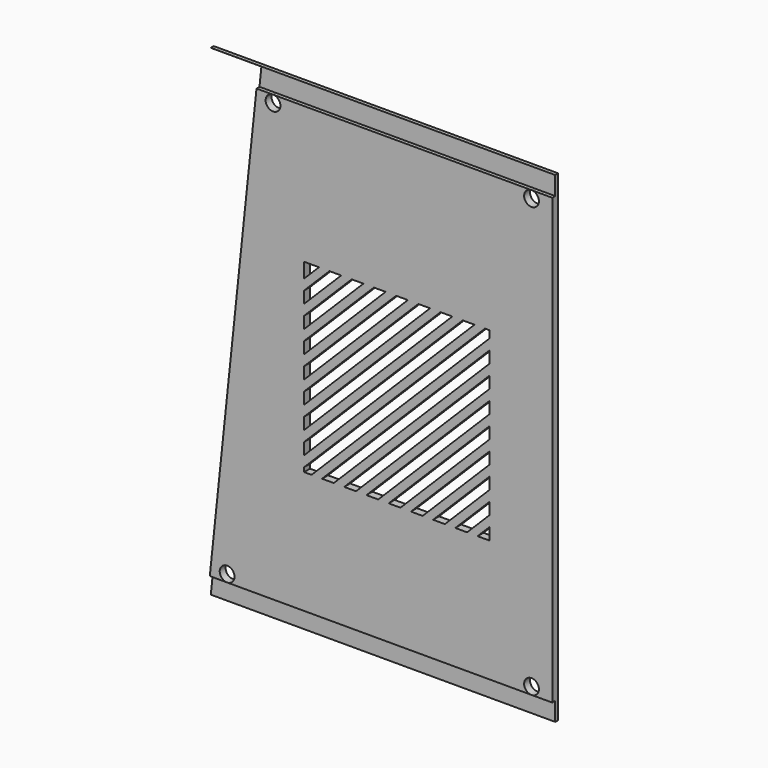
from build123d import *

# Parameters (mm, degrees)
CYLINDER074_R          = 2
CYLINDER074_DEPTH      = 10
CYLINDER073_R          = 2
CYLINDER073_DEPTH      = 10
CYLINDER075_R          = 2
CYLINDER075_DEPTH      = 10
CYLINDER076_R          = 2
CYLINDER076_DEPTH      = 10
BOX103_W               = 1
BOX103_H               = 100
BOX103_DEPTH           = 5
BOX102_W               = 1
BOX102_H               = 100
BOX102_DEPTH           = 5
BOX100_W               = 2
BOX100_H               = 2
BOX100_DEPTH           = 80
BOX100_PLACEMENT_ANGLE = 45
BOX101_W               = 2
BOX101_H               = 2
BOX101_DEPTH           = 80
BOX101_PLACEMENT_ANGLE = 45
BOX097_W               = 2
BOX097_H               = 2
BOX097_DEPTH           = 80
BOX097_PLACEMENT_ANGLE = 45
BOX096_W               = 2
BOX096_H               = 2
BOX096_DEPTH           = 80
BOX096_PLACEMENT_ANGLE = 45
BOX095_W               = 2
BOX095_H               = 2
BOX095_DEPTH           = 80
BOX095_PLACEMENT_ANGLE = 45
BOX094_W               = 2
BOX094_H               = 2
BOX094_DEPTH           = 80
BOX094_PLACEMENT_ANGLE = 45
BOX093_W               = 2
BOX093_H               = 2
BOX093_DEPTH           = 80
BOX093_PLACEMENT_ANGLE = 45
BOX092_W               = 2
BOX092_H               = 2
BOX092_DEPTH           = 80
BOX092_PLACEMENT_ANGLE = 45
BOX091_W               = 2
BOX091_H               = 2
BOX091_DEPTH           = 80
BOX091_PLACEMENT_ANGLE = 45
BOX090_W               = 2
BOX090_H               = 2
BOX090_DEPTH           = 80
BOX090_PLACEMENT_ANGLE = 45
BOX089_W               = 2
BOX089_H               = 2
BOX089_DEPTH           = 80
BOX089_PLACEMENT_ANGLE = 45
BOX088_W               = 2
BOX088_H               = 2
BOX088_DEPTH           = 80
BOX088_PLACEMENT_ANGLE = 45
BOX087_W               = 2
BOX087_H               = 2
BOX087_DEPTH           = 80
BOX087_PLACEMENT_ANGLE = 45
BOX086_W               = 2
BOX086_H               = 2
BOX086_DEPTH           = 80
BOX086_PLACEMENT_ANGLE = 45
BOX084_W               = 2
BOX084_H               = 2
BOX084_DEPTH           = 80
BOX084_PLACEMENT_ANGLE = 45
BOX085_W               = 2
BOX085_H               = 2
BOX085_DEPTH           = 80
BOX085_PLACEMENT_ANGLE = 45
BOX099_W               = 2
BOX099_H               = 2
BOX099_DEPTH           = 80
BOX099_PLACEMENT_ANGLE = 45
BOX098_W               = 2
BOX098_H               = 50
BOX098_DEPTH           = 50
PAD014_DEPTH           = 5
BOX083_W               = 2
BOX083_H               = 93
BOX083_DEPTH           = 130
CUT076_PLACEMENT_ANGLE = 90


with BuildPart() as cylinder043:
    # Cylinder074 → Cylinder074 (new body)
    with BuildSketch(Plane(origin=(102, 0, 27), x_dir=(1, 0, 0), z_dir=(0, -1, 0))):
        Circle(CYLINDER074_R)
    extrude(amount=CYLINDER074_DEPTH)


with BuildPart() as cylinder042:
    # Cylinder073 → Cylinder073 (new body)
    with BuildSketch(Plane(origin=(19.8, 0, 27), x_dir=(1, 0, 0), z_dir=(0, -1, 0))):
        Circle(CYLINDER073_R)
    extrude(amount=CYLINDER073_DEPTH)


with BuildPart() as cylinder044:
    # Cylinder075 → Cylinder075 (new body)
    with BuildSketch(Plane(origin=(102, 0, 143), x_dir=(1, 0, 0), z_dir=(0, -1, 0))):
        Circle(CYLINDER075_R)
    extrude(amount=CYLINDER075_DEPTH)


with BuildPart() as obj1:
    # Cylinder076 → Cylinder076 (new body)
    with BuildSketch(Plane(origin=(32.2, 0, 143), x_dir=(1, 0, 0), z_dir=(0, -1, 0))):
        Circle(CYLINDER076_R)
    extrude(amount=CYLINDER076_DEPTH)

    # Fusion045: union Cylinder043, Cylinder042, Cylinder044
    add(cylinder043.part)
    add(cylinder042.part)
    add(cylinder044.part)


with BuildPart() as obj1_1:
    # Fusion045 placement: moved
    add(obj1.part.moved(Location((0, 5, 0))))


with BuildPart() as cube094:
    # Box103 → Box103 (new body)
    with BuildSketch(Plane.XY.offset(125)):
        with Locations((0.5, 50)):
            Rectangle(BOX103_W, BOX103_H)
    extrude(amount=BOX103_DEPTH)


with BuildPart() as obj2:
    # Box102 → Box102 (new body)
    with BuildSketch(Plane.XY):
        with Locations((0.5, 50)):
            Rectangle(BOX102_W, BOX102_H)
    extrude(amount=BOX102_DEPTH)

    # Fusion044: union Cube094
    add(cube094.part)


with BuildPart() as cube091:
    # Box100 → Box100 (new body)
    with BuildSketch(Plane.XY):
        with Locations((1, 1)):
            Rectangle(BOX100_W, BOX100_H)
    extrude(amount=BOX100_DEPTH)


with BuildPart() as cube091_1:
    # Box100 placement: moved
    add(cube091.part.moved(Location((0, 90, 0))).rotate(Axis((0, 90, 0), (-1, 0, 0)), BOX100_PLACEMENT_ANGLE))


with BuildPart() as cube092:
    # Box101 → Box101 (new body)
    with BuildSketch(Plane.XY):
        with Locations((1, 1)):
            Rectangle(BOX101_W, BOX101_H)
    extrude(amount=BOX101_DEPTH)


with BuildPart() as cube092_1:
    # Box101 placement: moved
    add(cube092.part.moved(Location((0, 96, 0))).rotate(Axis((0, 96, 0), (-1, 0, 0)), BOX101_PLACEMENT_ANGLE))


with BuildPart() as cube088:
    # Box097 → Box097 (new body)
    with BuildSketch(Plane.XY):
        with Locations((1, 1)):
            Rectangle(BOX097_W, BOX097_H)
    extrude(amount=BOX097_DEPTH)


with BuildPart() as cube088_1:
    # Box097 placement: moved
    add(cube088.part.moved(Location((0, 78, 0))).rotate(Axis((0, 78, 0), (-1, 0, 0)), BOX097_PLACEMENT_ANGLE))


with BuildPart() as cube087:
    # Box096 → Box096 (new body)
    with BuildSketch(Plane.XY):
        with Locations((1, 1)):
            Rectangle(BOX096_W, BOX096_H)
    extrude(amount=BOX096_DEPTH)


with BuildPart() as cube087_1:
    # Box096 placement: moved
    add(cube087.part.moved(Location((0, 72, 0))).rotate(Axis((0, 72, 0), (-1, 0, 0)), BOX096_PLACEMENT_ANGLE))


with BuildPart() as cube086:
    # Box095 → Box095 (new body)
    with BuildSketch(Plane.XY):
        with Locations((1, 1)):
            Rectangle(BOX095_W, BOX095_H)
    extrude(amount=BOX095_DEPTH)


with BuildPart() as cube086_1:
    # Box095 placement: moved
    add(cube086.part.moved(Location((0, 66, 0))).rotate(Axis((0, 66, 0), (-1, 0, 0)), BOX095_PLACEMENT_ANGLE))


with BuildPart() as cube085:
    # Box094 → Box094 (new body)
    with BuildSketch(Plane.XY):
        with Locations((1, 1)):
            Rectangle(BOX094_W, BOX094_H)
    extrude(amount=BOX094_DEPTH)


with BuildPart() as cube085_1:
    # Box094 placement: moved
    add(cube085.part.moved(Location((0, 60, 0))).rotate(Axis((0, 60, 0), (-1, 0, 0)), BOX094_PLACEMENT_ANGLE))


with BuildPart() as cube084:
    # Box093 → Box093 (new body)
    with BuildSketch(Plane.XY):
        with Locations((1, 1)):
            Rectangle(BOX093_W, BOX093_H)
    extrude(amount=BOX093_DEPTH)


with BuildPart() as cube084_1:
    # Box093 placement: moved
    add(cube084.part.moved(Location((0, 54, 0))).rotate(Axis((0, 54, 0), (-1, 0, 0)), BOX093_PLACEMENT_ANGLE))


with BuildPart() as cube083:
    # Box092 → Box092 (new body)
    with BuildSketch(Plane.XY):
        with Locations((1, 1)):
            Rectangle(BOX092_W, BOX092_H)
    extrude(amount=BOX092_DEPTH)


with BuildPart() as cube083_1:
    # Box092 placement: moved
    add(cube083.part.moved(Location((0, 48, 0))).rotate(Axis((0, 48, 0), (-1, 0, 0)), BOX092_PLACEMENT_ANGLE))


with BuildPart() as cube082:
    # Box091 → Box091 (new body)
    with BuildSketch(Plane.XY):
        with Locations((1, 1)):
            Rectangle(BOX091_W, BOX091_H)
    extrude(amount=BOX091_DEPTH)


with BuildPart() as cube082_1:
    # Box091 placement: moved
    add(cube082.part.moved(Location((0, 42, 0))).rotate(Axis((0, 42, 0), (-1, 0, 0)), BOX091_PLACEMENT_ANGLE))


with BuildPart() as cube081:
    # Box090 → Box090 (new body)
    with BuildSketch(Plane.XY):
        with Locations((1, 1)):
            Rectangle(BOX090_W, BOX090_H)
    extrude(amount=BOX090_DEPTH)


with BuildPart() as cube081_1:
    # Box090 placement: moved
    add(cube081.part.moved(Location((0, 36, 0))).rotate(Axis((0, 36, 0), (-1, 0, 0)), BOX090_PLACEMENT_ANGLE))


with BuildPart() as cube080:
    # Box089 → Box089 (new body)
    with BuildSketch(Plane.XY):
        with Locations((1, 1)):
            Rectangle(BOX089_W, BOX089_H)
    extrude(amount=BOX089_DEPTH)


with BuildPart() as cube080_1:
    # Box089 placement: moved
    add(cube080.part.moved(Location((0, 30, 0))).rotate(Axis((0, 30, 0), (-1, 0, 0)), BOX089_PLACEMENT_ANGLE))


with BuildPart() as cube079:
    # Box088 → Box088 (new body)
    with BuildSketch(Plane.XY):
        with Locations((1, 1)):
            Rectangle(BOX088_W, BOX088_H)
    extrude(amount=BOX088_DEPTH)


with BuildPart() as cube079_1:
    # Box088 placement: moved
    add(cube079.part.moved(Location((0, 24, 0))).rotate(Axis((0, 24, 0), (-1, 0, 0)), BOX088_PLACEMENT_ANGLE))


with BuildPart() as cube078:
    # Box087 → Box087 (new body)
    with BuildSketch(Plane.XY):
        with Locations((1, 1)):
            Rectangle(BOX087_W, BOX087_H)
    extrude(amount=BOX087_DEPTH)


with BuildPart() as cube078_1:
    # Box087 placement: moved
    add(cube078.part.moved(Location((0, 18, 0))).rotate(Axis((0, 18, 0), (-1, 0, 0)), BOX087_PLACEMENT_ANGLE))


with BuildPart() as cube077:
    # Box086 → Box086 (new body)
    with BuildSketch(Plane.XY):
        with Locations((1, 1)):
            Rectangle(BOX086_W, BOX086_H)
    extrude(amount=BOX086_DEPTH)


with BuildPart() as cube077_1:
    # Box086 placement: moved
    add(cube077.part.moved(Location((0, 12, 0))).rotate(Axis((0, 12, 0), (-1, 0, 0)), BOX086_PLACEMENT_ANGLE))


with BuildPart() as cube075:
    # Box084 → Box084 (new body)
    with BuildSketch(Plane.XY):
        with Locations((1, 1)):
            Rectangle(BOX084_W, BOX084_H)
    extrude(amount=BOX084_DEPTH)


with BuildPart() as cube075_1:
    # Box084 placement: moved
    add(cube075.part.rotate(Axis((0, 0, 0), (-1, 0, 0)), BOX084_PLACEMENT_ANGLE))


with BuildPart() as cube076:
    # Box085 → Box085 (new body)
    with BuildSketch(Plane.XY):
        with Locations((1, 1)):
            Rectangle(BOX085_W, BOX085_H)
    extrude(amount=BOX085_DEPTH)


with BuildPart() as cube076_1:
    # Box085 placement: moved
    add(cube076.part.moved(Location((0, 6, 0))).rotate(Axis((0, 6, 0), (-1, 0, 0)), BOX085_PLACEMENT_ANGLE))


with BuildPart() as fusion043:
    # Box099 → Box099 (new body)
    with BuildSketch(Plane.XY):
        with Locations((1, 1)):
            Rectangle(BOX099_W, BOX099_H)
    extrude(amount=BOX099_DEPTH)


with BuildPart() as fusion043_1:
    # Box099 placement: moved
    add(fusion043.part.moved(Location((0, 84, 0))).rotate(Axis((0, 84, 0), (-1, 0, 0)), BOX099_PLACEMENT_ANGLE))

    # Fusion043: union Cube091, Cube092, Cube088, Cube087, Cube086, Cube085, Cube084, Cube083, Cube082, Cube081, Cube080, Cube079, Cube078, Cube077, Cube075, Cube076
    add(cube091_1.part)
    add(cube092_1.part)
    add(cube088_1.part)
    add(cube087_1.part)
    add(cube086_1.part)
    add(cube085_1.part)
    add(cube084_1.part)
    add(cube083_1.part)
    add(cube082_1.part)
    add(cube081_1.part)
    add(cube080_1.part)
    add(cube079_1.part)
    add(cube078_1.part)
    add(cube077_1.part)
    add(cube075_1.part)
    add(cube076_1.part)


with BuildPart() as obj3:
    # Box098 → Box098 (new body)
    with BuildSketch(Plane(origin=(0, 46, 0), x_dir=(1, 0, 0), z_dir=(0, 0, 1))):
        with Locations((1, 25)):
            Rectangle(BOX098_W, BOX098_H)
    extrude(amount=BOX098_DEPTH)

    # Cut074: cut Fusion043
    add(fusion043_1.part, mode=Mode.SUBTRACT)


with BuildPart() as obj3_1:
    # Cut074 placement: moved
    add(obj3.part.moved(Location((0, -20, 38))))


with BuildPart() as pad014:
    # Sketch021 → Pad014 (new body)
    with BuildSketch(Plane.YZ):
        Polygon((0, 0), (13.661518, 129.980665), (0, 129.980665), align=None)
    extrude(amount=PAD014_DEPTH)


with BuildPart() as obj4:
    # Box083 → Box083 (new body)
    with BuildSketch(Plane.XY):
        with Locations((1, 46.5)):
            Rectangle(BOX083_W, BOX083_H)
    extrude(amount=BOX083_DEPTH)

    # Cut073: cut Pad014
    add(pad014.part, mode=Mode.SUBTRACT)

    # Cut075: cut obj3
    add(obj3_1.part, mode=Mode.SUBTRACT)

    # Cut076: cut obj2
    add(obj2.part, mode=Mode.SUBTRACT)


with BuildPart() as obj4_1:
    # Cut076 placement: moved
    add(obj4.part.moved(Location((14.6, 2, 20))).rotate(Axis((14.6, 2, 20), (0, 0, -1)), CUT076_PLACEMENT_ANGLE))

    # Cut077: cut obj1
    add(obj1_1.part, mode=Mode.SUBTRACT)


with BuildPart() as part_mirroring011:
    # Part__Mirroring011: instance of obj4
    add(obj4_1.part.mirror(Plane(origin=(0, 0, 0), x_dir=(1, 0, 0), z_dir=(0, 1, 0))))


with BuildPart() as part_mirroring011_1:
    # Part__Mirroring011 placement: moved
    add(part_mirroring011.part.moved(Location((0, 110, 0))))


solid = part_mirroring011_1.part
